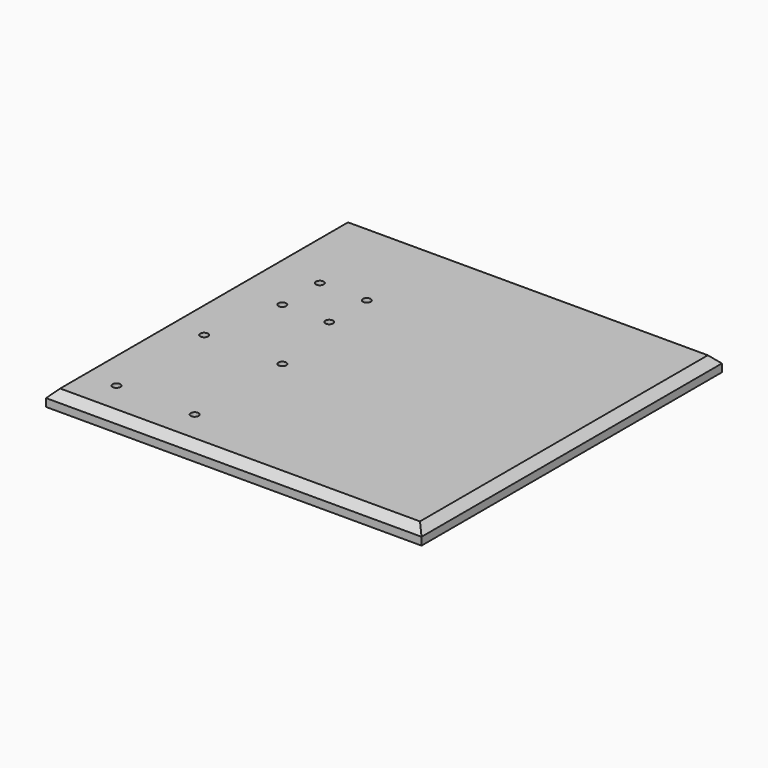
from build123d import *

# Parameters (mm, degrees)
F0_W     = 152.4
F0_H     = 152.4
F0_R     = 1.5875
F1_DEPTH = 6.35
F2_SIZE  = 3.175


with BuildPart() as f1:
    # F0 (on Top) → F1 (new body)
    with BuildSketch(Plane.XY):
        with Locations((76.2, 76.2)):
            Rectangle(F0_W, F0_H)
        with Locations((15.875, 15.875)):
            Circle(F0_R, mode=Mode.SUBTRACT)
        with Locations((47.625, 15.875)):
            Circle(F0_R, mode=Mode.SUBTRACT)
        with Locations((15.875, 60.325)):
            Circle(F0_R, mode=Mode.SUBTRACT)
        with Locations((47.625, 60.325)):
            Circle(F0_R, mode=Mode.SUBTRACT)
        with Locations((22.225, 92.075)):
            Circle(F0_R, mode=Mode.SUBTRACT)
        with Locations((22.225, 111.125)):
            Circle(F0_R, mode=Mode.SUBTRACT)
        with Locations((41.275, 92.075)):
            Circle(F0_R, mode=Mode.SUBTRACT)
        with Locations((41.275, 111.125)):
            Circle(F0_R, mode=Mode.SUBTRACT)
    extrude(amount=F1_DEPTH)

    # F2
    f2_edges = [f1.edges().sort_by_distance(p)[0] for p in [
        (0, 76.2, 6.35),
        (76.2, 0, 6.35),
        (152.4, 76.2, 6.35),
        (76.2, 152.4, 6.35),
    ]]
    chamfer(f2_edges, length=F2_SIZE)


solid = f1.part
